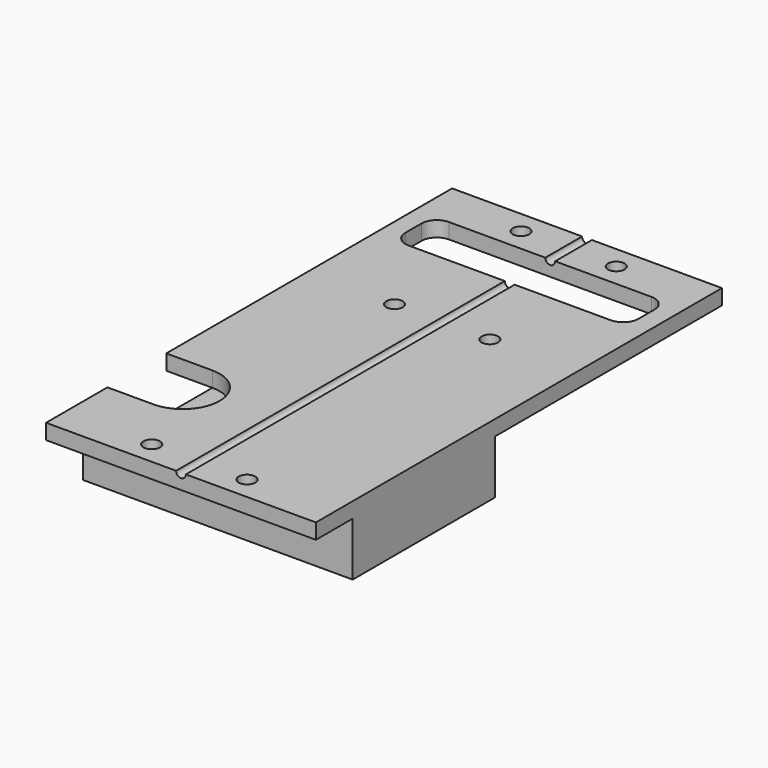
from build123d import *

# Parameters (mm, degrees)
F0_R      = 1.7145
F0_W      = 48.26
F0_H      = 10.4902
F1_DEPTH  = 3.175
F2_W      = 55.88
F2_H      = 36.83
F3_DEPTH  = 11.1252
F5_DEPTH  = 14.3012
F6_W      = 55.88
F6_H      = 3.175
F7_DEPTH  = 9.525
F8_R      = 1.016
F9_DEPTH  = 105.1062
F10_W     = 30.48
F10_H     = 7.9502
F11_DEPTH = 52.07
F12_R     = 3.175
F13_R     = 1.7145
F14_DEPTH = 25.4
F16_DEPTH = 10.16


with BuildPart() as f1:
    # F0 (on Top) → F1 (new body)
    with BuildSketch(Plane.XY):
        Polygon((-27.94, 0), (27.94, 0), (27.94, 72.39), (27.94, 95.5802), (-27.94, 95.5802), (-27.94, 72.39), align=None)
        with Locations((-9.8679, 58.0898)):
            Circle(F0_R, mode=Mode.SUBTRACT)
        with Locations((0, 80.8101)):
            Rectangle(F0_W, F0_H, mode=Mode.SUBTRACT)
        with Locations((-9.8679, 90.8177)):
            Circle(F0_R, mode=Mode.SUBTRACT)
        with Locations((9.8679, 58.0898)):
            Circle(F0_R, mode=Mode.SUBTRACT)
        with Locations((9.8679, 90.8177)):
            Circle(F0_R, mode=Mode.SUBTRACT)
    extrude(amount=F1_DEPTH)

    # F2 (on face) → F3 (join)
    with BuildSketch(Plane(origin=(0, 0, 0), x_dir=(1, 0, 0), z_dir=(0, 0, -1))):
        with Locations((0, -18.415)):
            Rectangle(F2_W, F2_H)
    extrude(amount=F3_DEPTH)

    # F4 (on face) → F5 (cut, through all)
    with BuildSketch(Plane(origin=(0, 0, -11.1252), x_dir=(1, 0, 0), z_dir=(0, 0, -1))):
        with BuildLine():
            Line((-27.94, -6.35), (-27.94, -21.59))
            Line((-27.94, -21.59), (-18.415, -21.59))
            ThreePointArc((-18.415, -21.59), (-10.795, -13.97), (-18.415, -6.35))
            Line((-18.415, -6.35), (-27.94, -6.35))
        make_face()
    extrude(amount=-F5_DEPTH, mode=Mode.SUBTRACT)

    # F6 (on face) → F7 (join)
    with BuildSketch(Plane.XZ):
        with Locations((0, 1.5875)):
            Rectangle(F6_W, F6_H)
    extrude(amount=F7_DEPTH)

    # F8 (on face) → F9 (cut, through all)
    with BuildSketch(Plane(origin=(0, 95.5802, 0), x_dir=(-1, 0, 0), z_dir=(0, 1, 0))):
        with Locations((0, 3.175)):
            Circle(F8_R)
    extrude(amount=-F9_DEPTH, mode=Mode.SUBTRACT)

    # F10 (on face) → F11 (cut)
    with BuildSketch(Plane(origin=(-27.94, 0, 0), x_dir=(0, -1, 0), z_dir=(-1, 0, 0))):
        with Locations((-18.415, -3.9751)):
            Rectangle(F10_W, F10_H)
    extrude(amount=-F11_DEPTH, mode=Mode.SUBTRACT)

    # F12
    f12_edges = [f1.edges().sort_by_distance(p)[0] for p in [
        (24.13, 75.565, 1.5875),
        (-24.13, 75.565, 1.5875),
        (-24.13, 86.0552, 1.5875),
        (24.13, 86.0552, 1.5875),
    ]]
    fillet(f12_edges, radius=F12_R)

    # F13 (on face) → F14 (cut)
    with BuildSketch(Plane(origin=(0, 0, 0), x_dir=(1, 0, 0), z_dir=(0, 0, -1))):
        with Locations((-9.8679, 4.7625)):
            Circle(F13_R)
        with Locations((9.8679, 4.7625)):
            Circle(F13_R)
    extrude(amount=-F14_DEPTH, mode=Mode.SUBTRACT)

    # F15 (on face) → F16 (cut)
    with BuildSketch(Plane(origin=(0, 0, -11.1252), x_dir=(1, 0, 0), z_dir=(0, 0, -1))):
        with BuildLine():
            Line((-6.35, -36.83), (6.35, -36.83))
            ThreePointArc((6.35, -36.83), (0, -30.48), (-6.35, -36.83))
        make_face()
    extrude(amount=-F16_DEPTH, mode=Mode.SUBTRACT)


solid = f1.part
